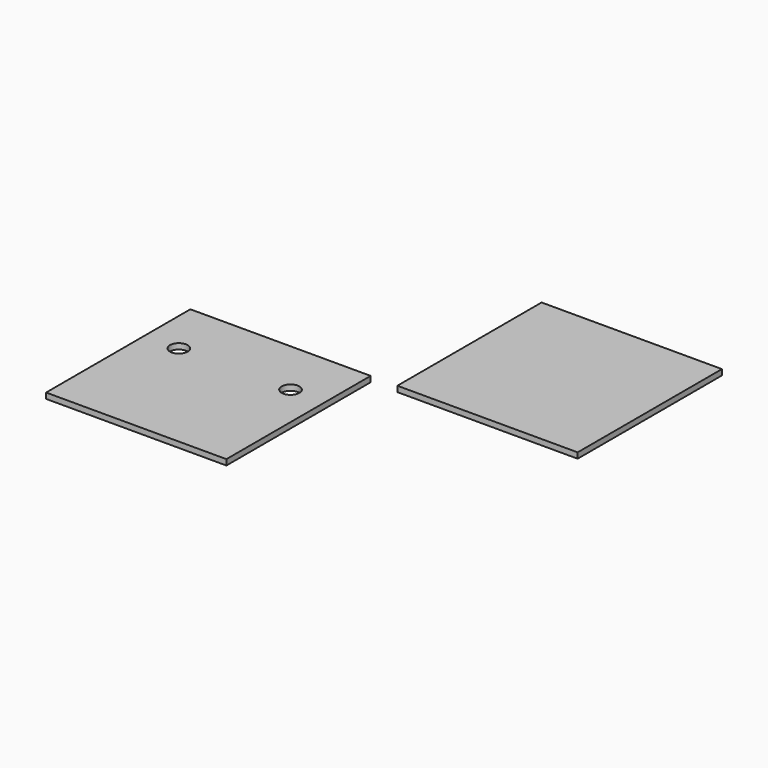
from build123d import *

# Parameters (mm, degrees)
F0_W     = 101.6
F0_H     = 101.6
F0_R     = 5
F1_DEPTH = 3.175
F2_DEPTH = 3.175


with BuildPart() as f1:
    # F0 (on Top) → F1 (new body)
    with BuildSketch(Plane.XY):
        with Locations((-50.8, -50.8)):
            Rectangle(F0_W, F0_H)
        with Locations((-82.260765, -32.255784)):
            Circle(F0_R, mode=Mode.SUBTRACT)
        with Locations((-19.339235, -32.255784)):
            Circle(F0_R, mode=Mode.SUBTRACT)
    extrude(amount=F1_DEPTH)


with BuildPart() as f2:
    # F0 (on Top) → F2 (new body)
    with BuildSketch(Plane.XY):
        with Locations((65.834586, 50.8)):
            Rectangle(F0_W, F0_H)
    extrude(amount=F2_DEPTH)


solid = Compound([f1.part, f2.part])
